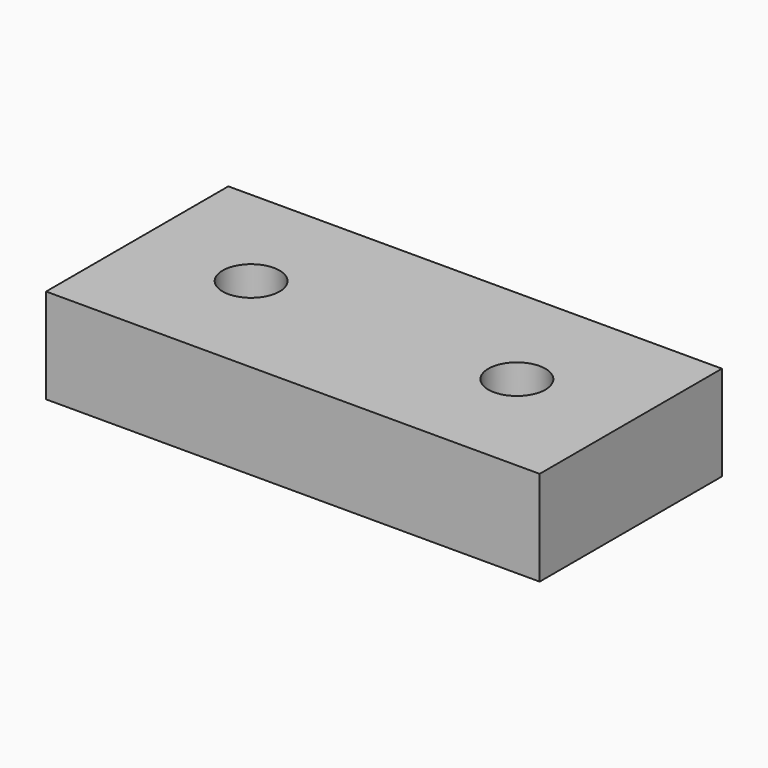
from build123d import *

# Parameters (mm, degrees)
F0_W     = 26
F0_H     = 12
F0_R     = 1.5
F1_DEPTH = 5
F2_R     = 3
F3_DEPTH = 2


with BuildPart() as f1:
    # F0 (on Top) → F1 (new body)
    with BuildSketch(Plane.XY):
        with Locations((-77, -45.086559)):
            Rectangle(F0_W, F0_H)
        with Locations((-84, -45.086559)):
            Circle(F0_R, mode=Mode.SUBTRACT)
        with Locations((-70, -45.086559)):
            Circle(F0_R, mode=Mode.SUBTRACT)
    extrude(amount=-F1_DEPTH)

    # F2 (on face) → F3 (cut)
    with BuildSketch(Plane(origin=(0, 0, -5), x_dir=(1, 0, 0), z_dir=(0, 0, -1))):
        with Locations((-84, 45.086559)):
            Circle(F2_R)
        with Locations((-70, 45.086559)):
            Circle(F2_R)
    extrude(amount=-F3_DEPTH, mode=Mode.SUBTRACT)


solid = f1.part
